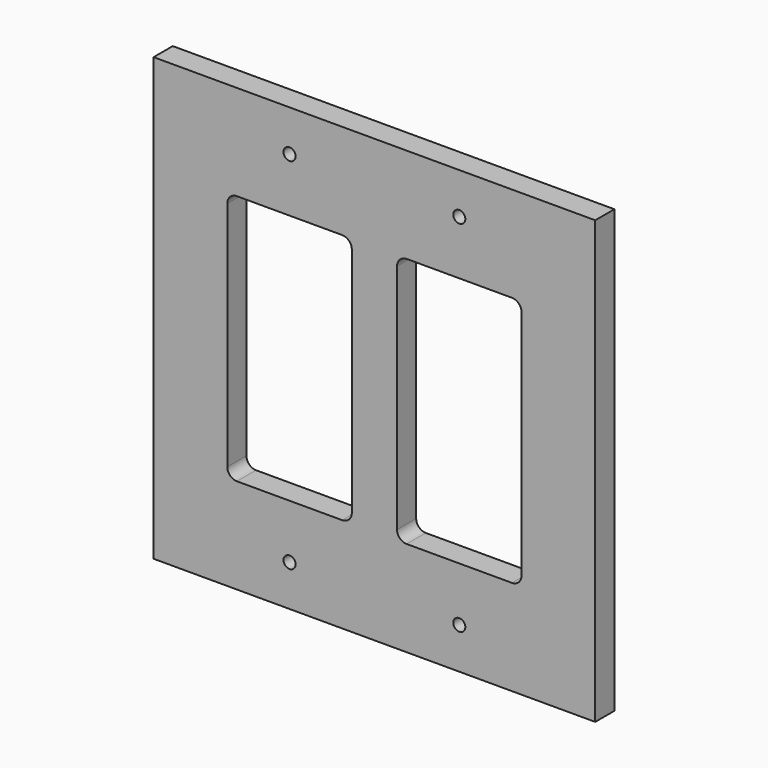
from build123d import *

# Parameters (mm, degrees)
F0_R     = 1.6002
F1_DEPTH = 6.35
F2_R     = 2.54


with BuildPart() as f1:
    # F0 (on Front) → F1 (new body)
    with BuildSketch(Plane.XZ):
        Polygon((58.547, 58.547), (0, 58.547), (-58.547, 58.547), (-58.547, 0), (-58.547, -58.547), (0, -58.547), (58.547, -58.547), (58.547, 0), align=None)
        with Locations((-22.5044, -47.625)):
            Circle(F0_R, mode=Mode.SUBTRACT)
        with Locations((22.5044, -47.625)):
            Circle(F0_R, mode=Mode.SUBTRACT)
        Polygon((-39.0144, 33.274), (-5.9944, 33.274), (-5.9944, 0), (-5.9944, -33.274), (-39.0144, -33.274), (-39.0144, 0), align=None, mode=Mode.SUBTRACT)
        with Locations((-22.5044, 47.625)):
            Circle(F0_R, mode=Mode.SUBTRACT)
        Polygon((5.9944, 0), (5.9944, 33.274), (39.0144, 33.274), (39.0144, 0), (39.0144, -33.274), (5.9944, -33.274), align=None, mode=Mode.SUBTRACT)
        with Locations((22.5044, 47.625)):
            Circle(F0_R, mode=Mode.SUBTRACT)
    extrude(amount=F1_DEPTH)

    # F2
    f2_edges = [f1.edges().sort_by_distance(p)[0] for p in [
        (39.0144, -3.175, 33.274),
        (39.0144, -3.175, -33.274),
        (-5.9944, -3.175, -33.274),
        (-5.9944, -3.175, 33.274),
        (5.9944, -3.175, 33.274),
        (-39.0144, -3.175, 33.274),
        (5.9944, -3.175, -33.274),
        (-39.0144, -3.175, -33.274),
    ]]
    fillet(f2_edges, radius=F2_R)


solid = f1.part
